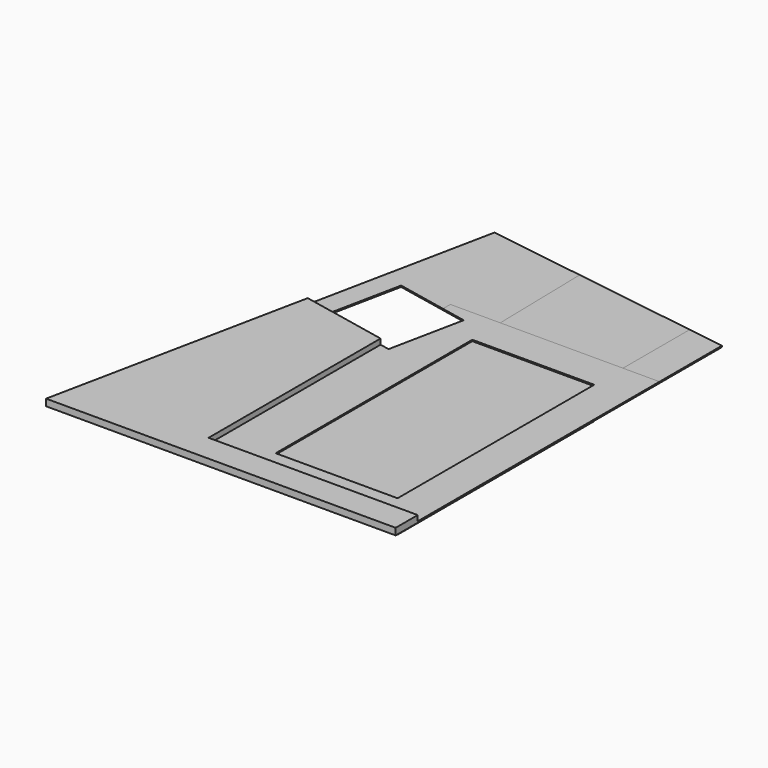
from build123d import *

# Parameters (mm, degrees)
F0_W     = 190
F0_H     = 383
F1_DEPTH = 48
F2_DEPTH = 2
F0_W_2   = 57
F0_H_2   = 43
F3_DEPTH = 10.5
F4_DEPTH = 2
F5_DEPTH = 2


with BuildPart() as f1:
    # F0 (on Top) → F1 (new body)
    with BuildSketch(Plane.XY):
        with Locations((54.035132, -92.504614)):
            Rectangle(F0_W, F0_H)
    extrude(amount=-F1_DEPTH)


with BuildPart() as f2:
    # F0 (on Top) → F2 (new body)
    with BuildSketch(Plane.XY):
        Polygon((149.035132, 154.995386), (-42.164093, 154.995386), (-40.964868, 98.995386), (149.035132, 98.995386), align=None)
        Polygon((-40.964868, -284.004614), (-119.964868, -284.004614), (-119.964868, -316.004614), (149.035132, -316.004614), (149.035132, -284.004614), align=None)
        Polygon((-40.964868, 98.995386), (-42.164093, 154.995386), (-119.964868, 154.995386), (-119.964868, 140.506544), (-81.241207, 132.575192), (-105.118999, 15.995386), (-119.964868, 19.036106), (-119.964868, -284.004614), (-40.964868, -284.004614), align=None)
        Polygon((206.035132, 154.995386), (149.035132, 154.995386), (149.035132, 98.995386), (149.035132, -284.004614), (149.035132, -316.004614), (206.035132, -316.004614), align=None)
    extrude(amount=F2_DEPTH)


with BuildPart() as f3:
    # F0 (on Top) → F3 (new body)
    with BuildSketch(Plane.XY):
        Polygon((-221.698804, 39.873178), (-255.649953, 46.827028), (-323.410651, -284.004614), (-119.964868, -284.004614), (-119.964868, 19.036106), align=None)
        Polygon((-119.964868, -284.004614), (-323.410651, -284.004614), (-338.772097, -359.004614), (149.035132, -359.004614), (149.035132, -316.004614), (-119.964868, -316.004614), align=None)
        with Locations((177.535132, -337.504614)):
            Rectangle(F0_W_2, F0_H_2)
    extrude(amount=F3_DEPTH)


with BuildPart() as f4:
    # F0 (on Top) → F4 (new body)
    with BuildSketch(Plane.XY):
        Polygon((149.035132, 284.995386), (-45.567979, 313.946105), (-42.164093, 154.995386), (149.035132, 154.995386), align=None)
    extrude(amount=F4_DEPTH)


with BuildPart() as f5:
    # F0 (on Top) → F5 (new body, through all)
    with BuildSketch(Plane.XY):
        Polygon((-45.567979, 313.946105), (-196.34457, 336.376839), (-255.649953, 46.827028), (-221.698804, 39.873178), (-197.821013, 156.452983), (-119.964868, 140.506544), (-119.964868, 154.995386), (-42.164093, 154.995386), align=None)
        Polygon((206.035132, 276.515609), (149.035132, 284.995386), (149.035132, 154.995386), (206.035132, 154.995386), align=None)
    extrude(amount=F5_DEPTH)


solid = Compound([f1.part, f2.part, f3.part, f4.part, f5.part])
